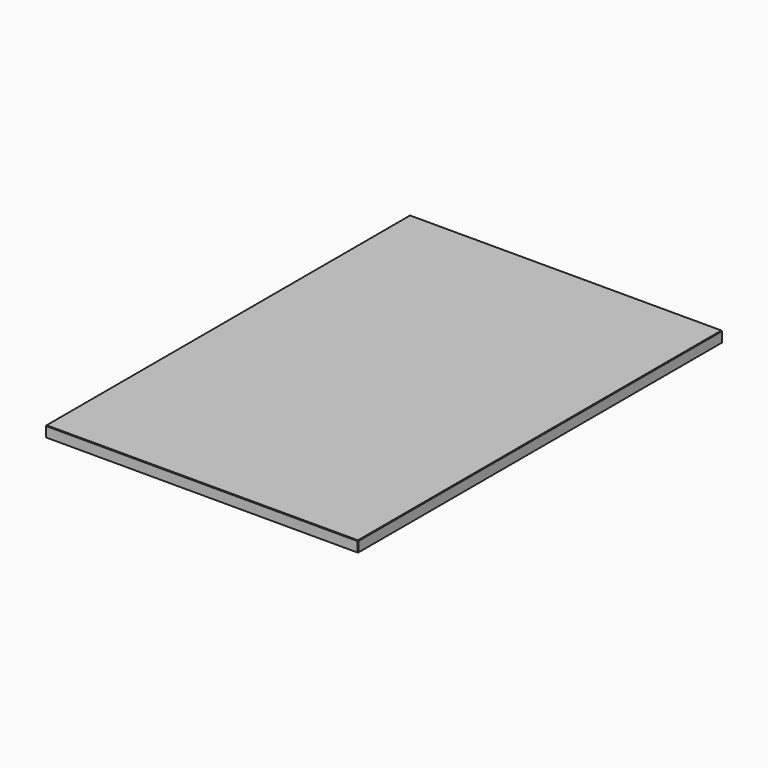
from build123d import *

# Parameters (mm, degrees)
F0_W     = 590
F0_H     = 20
F1_DEPTH = 860
F2_SIZE  = 1


with BuildPart() as f1:
    # F0 (on Front) → F1 (new body)
    with BuildSketch(Plane.XZ):
        with Locations((0, 10)):
            Rectangle(F0_W, F0_H)
    extrude(amount=-F1_DEPTH)

    # F2
    f2_edges = [f1.edges().sort_by_distance(p)[0] for p in [
        (295, 430, 20),
        (-295, 430, 20),
        (0, 0, 20),
        (0, 860, 20),
        (295, 0, 10),
        (295, 860, 10),
        (-295, 0, 10),
        (-295, 860, 10),
    ]]
    chamfer(f2_edges, length=F2_SIZE)


solid = f1.part
